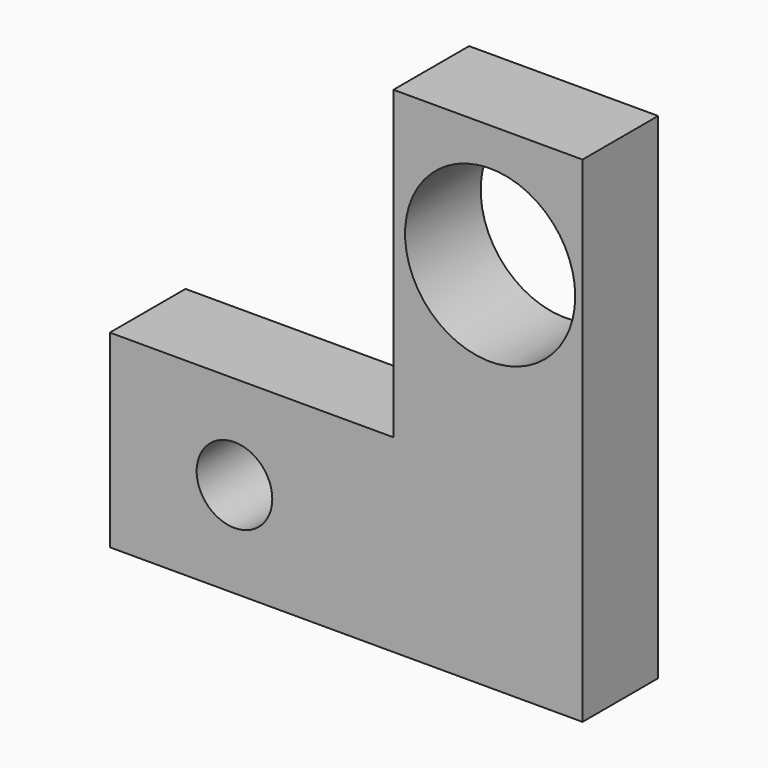
from build123d import *

# Parameters (mm, degrees)
F0_R     = 5.08
F0_R_2   = 11.43
F1_DEPTH = 12.7


with BuildPart() as f1:
    # F0 (on Front) → F1 (new body)
    with BuildSketch(Plane.XZ):
        Polygon((25.684592, 31.27541), (0.284592, 31.27541), (0.284592, -9.833262), (-37.815408, -9.833262), (-37.815408, -35.233262), (0.284592, -35.233262), (25.684592, -35.233262), align=None)
        with Locations((-21.07461, -22.422405)):
            Circle(F0_R, mode=Mode.SUBTRACT)
        with Locations((13.275684, 14.76541)):
            Circle(F0_R_2, mode=Mode.SUBTRACT)
    extrude(amount=F1_DEPTH)


solid = f1.part
